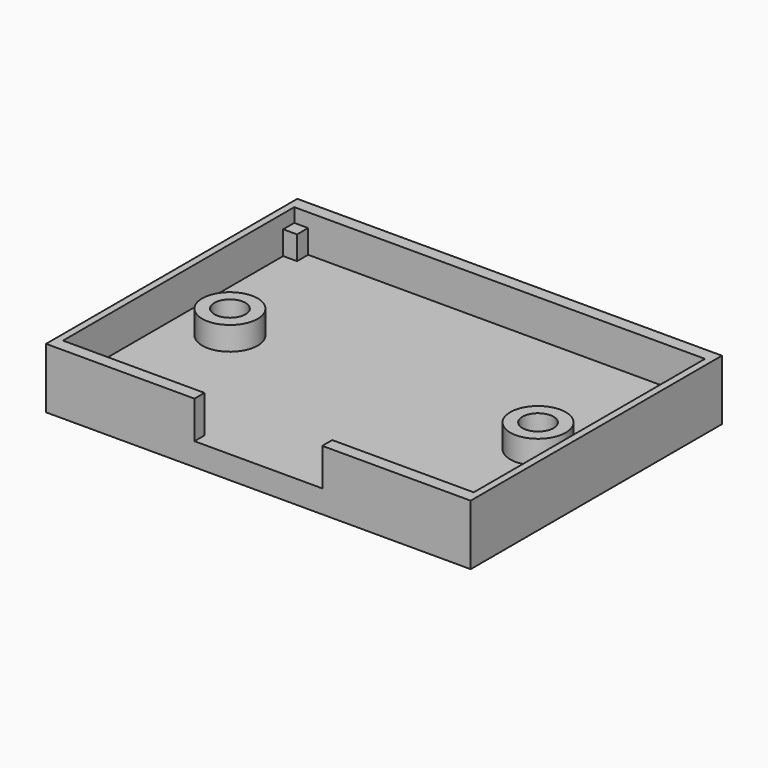
from build123d import *

# Parameters (mm, degrees)
F0_W      = 38.8747
F0_H      = 28.7528
F1_DEPTH  = 5.5245
F2_W      = 37.6047
F2_H      = 26.4668
F3_DEPTH  = 3.429
F4_W      = 1.27
F4_H      = 2.159
F5_DEPTH  = 1.27
F6_W      = 1.27
F6_H      = 2.159
F7_DEPTH  = 1.27
F8_W      = 1.27
F8_H      = 2.159
F9_DEPTH  = 1.27
F10_W     = 1.27
F10_H     = 2.159
F11_DEPTH = 1.27
F12_R     = 2.54
F13_DEPTH = 2.159
F14_R     = 1.4224
F15_DEPTH = 4.2555
F16_R     = 2.54
F17_DEPTH = 2.159
F18_R     = 1.4224
F19_DEPTH = 4.2555
F20_W     = 11.6967
F20_H     = 3.429
F21_DEPTH = 2.032


with BuildPart() as f1:
    # F0 (on Top) → F1 (new body)
    with BuildSketch(Plane.XY):
        Rectangle(F0_W, F0_H)
    extrude(amount=F1_DEPTH)

    # F2 (on face) → F3 (cut)
    with BuildSketch(Plane.XY.offset(5.5245)):
        Rectangle(F2_W, F2_H)
    extrude(amount=-F3_DEPTH, mode=Mode.SUBTRACT)

    # F4 (on face) → F5 (join)
    with BuildSketch(Plane.XZ.offset(-13.2334)):
        with Locations((-18.16735, 3.175)):
            Rectangle(F4_W, F4_H)
    extrude(amount=F5_DEPTH)

    # F6 (on face) → F7 (join)
    with BuildSketch(Plane(origin=(18.80235, 0, 0), x_dir=(0, -1, 0), z_dir=(-1, 0, 0))):
        with Locations((-12.5984, 3.175)):
            Rectangle(F6_W, F6_H)
    extrude(amount=F7_DEPTH)

    # F8 (on face) → F9 (join)
    with BuildSketch(Plane(origin=(0, -13.2334, 0), x_dir=(-1, 0, 0), z_dir=(0, 1, 0))):
        with Locations((-18.16735, 3.175)):
            Rectangle(F8_W, F8_H)
    extrude(amount=F9_DEPTH)

    # F10 (on face) → F11 (join)
    with BuildSketch(Plane(origin=(0, -13.2334, 0), x_dir=(-1, 0, 0), z_dir=(0, 1, 0))):
        with Locations((18.16735, 3.175)):
            Rectangle(F10_W, F10_H)
    extrude(amount=F11_DEPTH)

    # F12 (on face) → F13 (join)
    with BuildSketch(Plane.XY.offset(2.0955)):
        with Locations((-14.10335, 0)):
            Circle(F12_R)
    extrude(amount=F13_DEPTH)

    # F14 (on face) → F15 (cut, through all)
    with BuildSketch(Plane.XY.offset(4.2545)):
        with Locations((-14.10335, 0)):
            Circle(F14_R)
    extrude(amount=-F15_DEPTH, mode=Mode.SUBTRACT)

    # F16 (on face) → F17 (join)
    with BuildSketch(Plane.XY.offset(2.0955)):
        with Locations((14.10335, 0)):
            Circle(F16_R)
    extrude(amount=F17_DEPTH)

    # F18 (on face) → F19 (cut, through all)
    with BuildSketch(Plane.XY.offset(4.2545)):
        with Locations((14.10335, 0)):
            Circle(F18_R)
    extrude(amount=-F19_DEPTH, mode=Mode.SUBTRACT)

    # F20 (on face) → F21 (cut)
    with BuildSketch(Plane.XZ.offset(14.3764)):
        with Locations((0, 3.81)):
            Rectangle(F20_W, F20_H)
    extrude(amount=-F21_DEPTH, mode=Mode.SUBTRACT)


solid = f1.part
